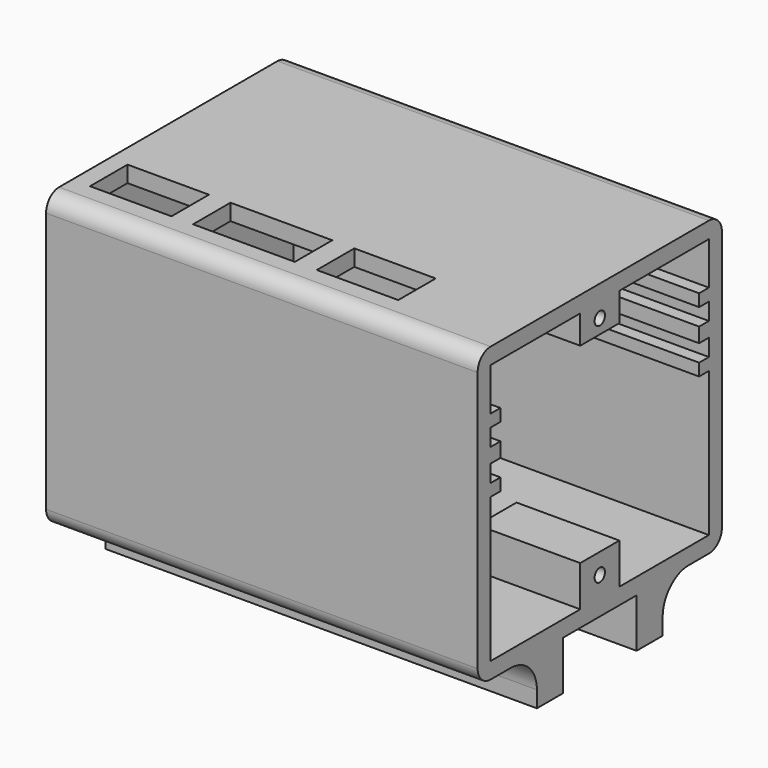
from build123d import *

# Parameters (mm, degrees)
SKETCH_W        = 53
SKETCH_H        = 37.5
SKETCH_W_2      = 49
SKETCH_H_2      = 33.5
PAD_DEPTH       = 32
SKETCH001_W     = 53
SKETCH001_H     = 37.5
PAD001_DEPTH    = 2
SKETCH002_W     = 53
SKETCH002_H     = 37.5
PAD002_DEPTH    = 2
SKETCH003_W     = 33.5
SKETCH003_H     = 32
POCKET_DEPTH    = 2
SKETCH004_W     = 10
SKETCH004_H     = 5.75
SKETCH004_W_2   = 12.5
POCKET001_DEPTH = 5
SKETCH005_W     = 51
SKETCH005_H     = 1.8
SKETCH005_H_2   = 1.5
PAD003_DEPTH    = 33.5
SKETCH006_W     = 30.5
SKETCH006_H     = 9
POCKET002_DEPTH = 51
SKETCH007_W     = 17.616245
SKETCH007_H     = 6
PAD004_DEPTH    = 5
SKETCH008_R     = 0.8
POCKET003_DEPTH = 5
SKETCH009_W     = 17.616245
SKETCH009_H     = 6
PAD005_DEPTH    = 3.5
SKETCH010_R     = 0.8
POCKET004_DEPTH = 6
CHAMFER_SIZE    = 3.499
CHAMFER001_SIZE = 4.99
FILLET_R        = 1.99
SKETCH011_W     = 53
SKETCH011_H     = 4
PAD006_DEPTH    = 6
FILLET001_R     = 4


with BuildPart() as part:
    # Sketch → Pad (new body)
    with BuildSketch(Plane.XY):
        Rectangle(SKETCH_W, SKETCH_H)
        Rectangle(SKETCH_W_2, SKETCH_H_2, mode=Mode.SUBTRACT)
    extrude(amount=PAD_DEPTH)

    # Sketch001 (on Face10 of Pad) → Pad001 (join)
    with BuildSketch(Plane.XY.offset(32)):
        Rectangle(SKETCH001_W, SKETCH001_H)
    extrude(amount=PAD001_DEPTH)

    # Sketch002 (on Face4 of Pad001) → Pad002 (join)
    with BuildSketch(Plane(origin=(0, 0, 0), x_dir=(1, 0, 0), z_dir=(0, 0, -1))):
        Rectangle(SKETCH002_W, SKETCH002_H)
    extrude(amount=PAD002_DEPTH)

    # Sketch003 (on Face3 of Pad002) → Pocket (cut)
    with BuildSketch(Plane.YZ.offset(26.5)):
        with Locations((0, 16)):
            Rectangle(SKETCH003_W, SKETCH003_H)
    extrude(amount=-POCKET_DEPTH, mode=Mode.SUBTRACT)

    # Sketch004 (on Face13 of Pocket) → Pocket001 (cut)
    with BuildSketch(Plane.XY.offset(34)):
        with Locations((-19.3, -11.875)):
            Rectangle(SKETCH004_W, SKETCH004_H)
        with Locations((-5.4, -11.875)):
            Rectangle(SKETCH004_W_2, SKETCH004_H)
        with Locations((8.55, -11.875)):
            Rectangle(SKETCH004_W, SKETCH004_H)
    extrude(amount=-POCKET001_DEPTH, mode=Mode.SUBTRACT)

    # Sketch005 (on Face36 of Pocket001) → Pad003 (join)
    with BuildSketch(Plane(origin=(0, -16.75, 0), x_dir=(-1, 0, 0), z_dir=(0, 1, 0))):
        with Locations((-1, 22.25)):
            Rectangle(SKETCH005_W, SKETCH005_H)
        with Locations((-1, 26)):
            Rectangle(SKETCH005_W, SKETCH005_H_2)
        with Locations((-1, 18.5)):
            Rectangle(SKETCH005_W, SKETCH005_H_2)
    extrude(amount=PAD003_DEPTH)

    # Sketch006 (on Face11 of Pad003) → Pocket002 (cut)
    with BuildSketch(Plane.YZ.offset(26.5)):
        with Locations((0, 22.25)):
            Rectangle(SKETCH006_W, SKETCH006_H)
    extrude(amount=-POCKET002_DEPTH, mode=Mode.SUBTRACT)

    # Sketch007 (on Face57 of Pocket002) → Pad004 (join)
    with BuildSketch(Plane.XY):
        with Locations((17.6918775, 0)):
            Rectangle(SKETCH007_W, SKETCH007_H)
    extrude(amount=PAD004_DEPTH)

    # Sketch008 (on Face24 of Pad004) → Pocket003 (cut)
    with BuildSketch(Plane.YZ.offset(26.5)):
        with Locations((0, 2.5)):
            Circle(SKETCH008_R)
    extrude(amount=-POCKET003_DEPTH, mode=Mode.SUBTRACT)

    # Sketch009 (on Face65 of Pocket003) → Pad005 (join)
    with BuildSketch(Plane(origin=(0, 0, 32), x_dir=(1, 0, 0), z_dir=(0, 0, -1))):
        with Locations((17.6918775, 0)):
            Rectangle(SKETCH009_W, SKETCH009_H)
    extrude(amount=PAD005_DEPTH)

    # Sketch010 (on Face41 of Pad005) → Pocket004 (cut)
    with BuildSketch(Plane.YZ.offset(26.5)):
        with Locations((0, 30.25)):
            Circle(SKETCH010_R)
    extrude(amount=-POCKET004_DEPTH, mode=Mode.SUBTRACT)

    # Chamfer
    chamfer_edges = [part.edges().sort_by_distance(p)[0] for p in [
        (8.883755, 0, 28.5),
    ]]
    chamfer(chamfer_edges, length=CHAMFER_SIZE)

    # Chamfer001
    chamfer001_edges = [part.edges().sort_by_distance(p)[0] for p in [
        (8.883755, 0, 5),
    ]]
    chamfer(chamfer001_edges, length=CHAMFER001_SIZE)

    # Fillet
    fillet_edges = [part.edges().sort_by_distance(p)[0] for p in [
        (0, -18.75, 34),
        (0, 18.75, 34),
        (0, 18.75, -2),
        (0, -18.75, -2),
    ]]
    fillet(fillet_edges, radius=FILLET_R)

    # Sketch011 (on Face5 of Fillet) → Pad006 (join)
    with BuildSketch(Plane(origin=(0, 0, -2), x_dir=(1, 0, 0), z_dir=(0, 0, -1))):
        with Locations((0, 7.65)):
            Rectangle(SKETCH011_W, SKETCH011_H)
        with Locations((0, -7.65)):
            Rectangle(SKETCH011_W, SKETCH011_H)
    extrude(amount=PAD006_DEPTH)

    # Fillet001
    fillet001_edges = [part.edges().sort_by_distance(p)[0] for p in [
        (0, 9.65, -2),
        (0, -9.65, -2),
    ]]
    fillet(fillet001_edges, radius=FILLET001_R)


solid = part.part
